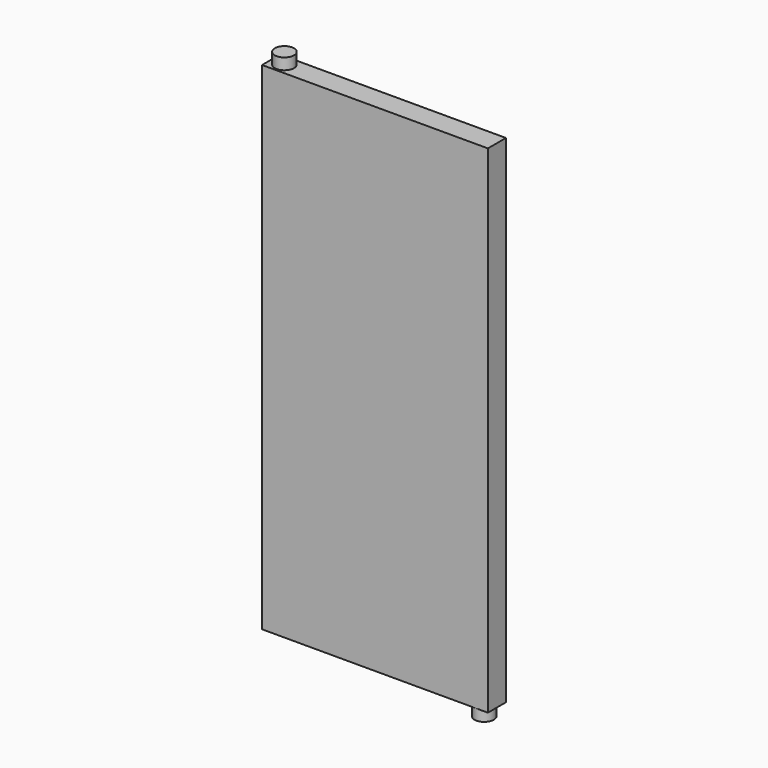
from build123d import *

# Parameters (mm, degrees)
F0_W     = 500
F0_H     = 1100
F1_DEPTH = 50
F2_R     = 21.310821
F3_DEPTH = 25
F4_R     = 21.289227
F5_DEPTH = 25


with BuildPart() as f1:
    # F0 (on Front) → F1 (new body)
    with BuildSketch(Plane.XZ):
        Rectangle(F0_W, F0_H)
    extrude(amount=F1_DEPTH)

    # F2 (on face) → F3 (join)
    with BuildSketch(Plane.XY.offset(550)):
        with Locations((-220.649317, -24.756737)):
            Circle(F2_R)
    extrude(amount=F3_DEPTH)

    # F4 (on face) → F5 (join)
    with BuildSketch(Plane(origin=(0, 0, -550), x_dir=(1, 0, 0), z_dir=(0, 0, -1))):
        with Locations((223.219097, 26.814517)):
            Circle(F4_R)
    extrude(amount=F5_DEPTH)


solid = f1.part
